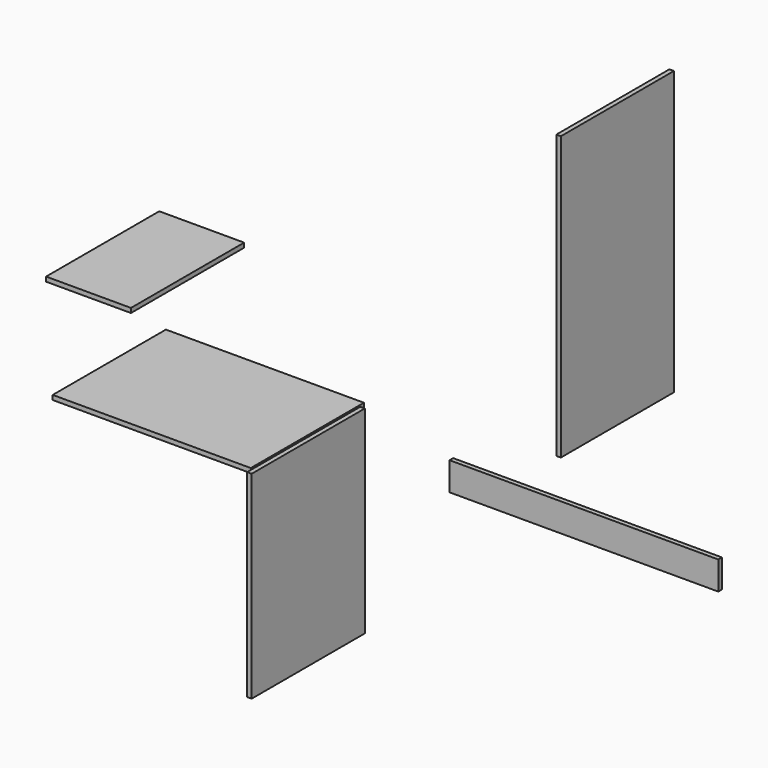
from build123d import *

# Parameters (mm, degrees)
F0_W     = 950
F0_H     = 100
F1_DEPTH = 16
F2_W     = 500
F2_H     = 700
F3_DEPTH = 16
F4_W     = 500
F4_H     = 1000
F5_DEPTH = 16
F6_W     = 700
F6_H     = 500
F7_DEPTH = 16
F8_W     = 300
F8_H     = 500
F9_DEPTH = 16


with BuildPart() as f1:
    # F0 (on Front) → F1 (new body)
    with BuildSketch(Plane.XZ):
        with Locations((475, 50)):
            Rectangle(F0_W, F0_H)
    extrude(amount=F1_DEPTH)


with BuildPart() as f3:
    # F2 (on Right) → F3 (new body)
    with BuildSketch(Plane.YZ):
        with Locations((-660.389677, 76.544831)):
            Rectangle(F2_W, F2_H)
    extrude(amount=F3_DEPTH)


with BuildPart() as f5:
    # F4 (on Right) → F5 (new body)
    with BuildSketch(Plane.YZ):
        with Locations((705.586895, 421.594957)):
            Rectangle(F4_W, F4_H)
    extrude(amount=F5_DEPTH)


with BuildPart() as f7:
    # F6 (on Top) → F7 (new body)
    with BuildSketch(Plane.XY):
        with Locations((-850, -19.326312)):
            Rectangle(F6_W, F6_H)
    extrude(amount=F7_DEPTH)


with BuildPart() as f9:
    # F8 (on Top) → F9 (new body)
    with BuildSketch(Plane.XY):
        with Locations((-1506.223583, 521.511942)):
            Rectangle(F8_W, F8_H)
    extrude(amount=F9_DEPTH)


solid = Compound([f1.part, f3.part, f5.part, f7.part, f9.part])
